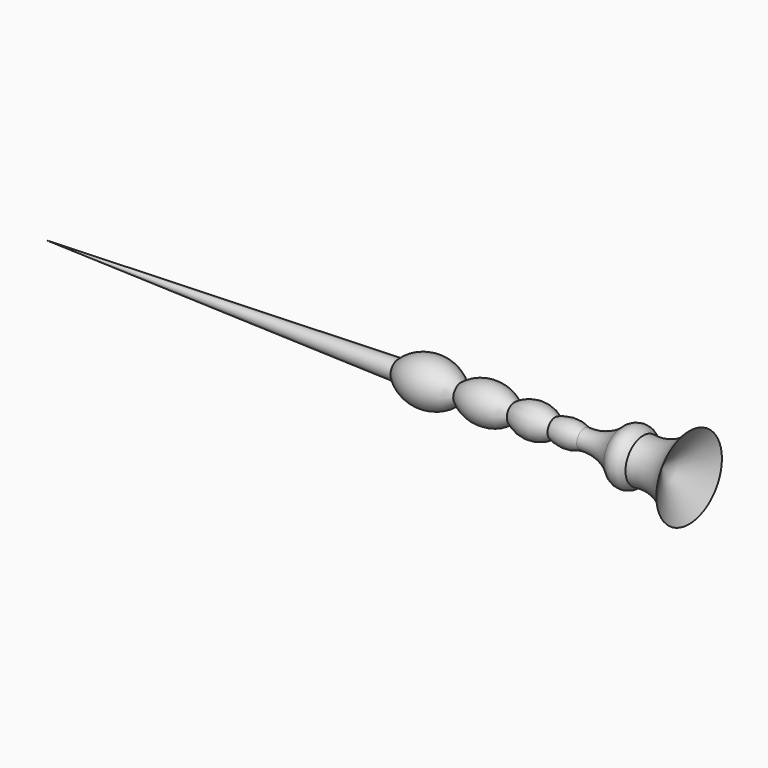
from build123d import *


with BuildPart() as f1:
    # F0 (on Top) → F1 (revolve)
    with BuildSketch(Plane.XY):
        with BuildLine():
            Line((40.465098, 17.228693), (-147.924334, 12.066938))
            Line((-147.924334, 12.066938), (182.042071, 12.066938))
            Line((182.042071, 12.066938), (196.13757, 34.00075))
            ThreePointArc((196.13757, 34.00075), (185.195735, 25.646108), (171.541095, 23.892656))
            ThreePointArc((171.541095, 23.892656), (165.739328, 26.680922), (159.937561, 23.892656))
            ThreePointArc((159.937561, 23.892656), (150.673117, 18.605893), (140.095636, 17.228693))
            ThreePointArc((140.095636, 17.228693), (132.277064, 18.842771), (124.458492, 17.228693))
            ThreePointArc((124.458492, 17.228693), (113.572422, 20.759941), (102.686353, 17.228693))
            ThreePointArc((102.686353, 17.228693), (88.368863, 22.224471), (74.051373, 17.228693))
            ThreePointArc((74.051373, 17.228693), (57.258235, 24.209892), (40.465098, 17.228693))
        make_face()
    revolve(axis=Axis((13.855253, 12.066938, 0), (1, 0, 0)))


solid = f1.part
